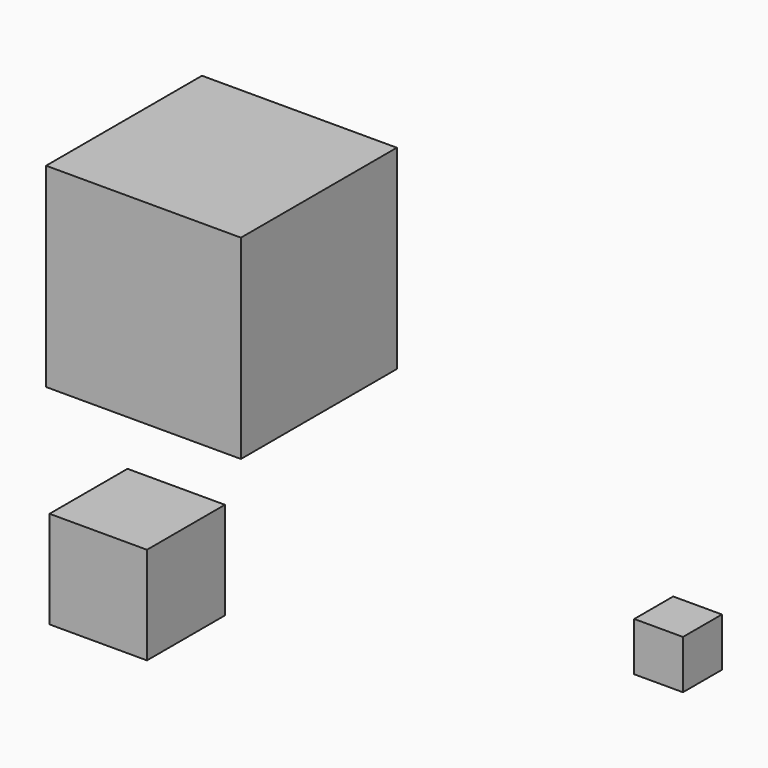
from build123d import *

# Parameters (mm, degrees)
F0_W     = 50.8
F0_H     = 50.8
F1_DEPTH = 50.8
F2_W     = 25.4
F2_H     = 25.4
F3_DEPTH = 25.4
F4_W     = 12.7
F4_H     = 12.7
F5_DEPTH = 12.7


with BuildPart() as f1:
    # F0 (on Top) → F1 (new body)
    with BuildSketch(Plane.XY):
        with Locations((-25.4, 25.4)):
            Rectangle(F0_W, F0_H)
    extrude(amount=F1_DEPTH)


with BuildPart() as f3:
    # F2 (on Top) → F3 (new body)
    with BuildSketch(Plane.XY):
        with Locations((27.840431, -68.59422)):
            Rectangle(F2_W, F2_H)
    extrude(amount=F3_DEPTH)


with BuildPart() as f5:
    # F4 (on Top) → F5 (new body)
    with BuildSketch(Plane.XY):
        with Locations((128.169875, -17.749609)):
            Rectangle(F4_W, F4_H)
    extrude(amount=F5_DEPTH)


solid = Compound([f1.part, f3.part, f5.part])
